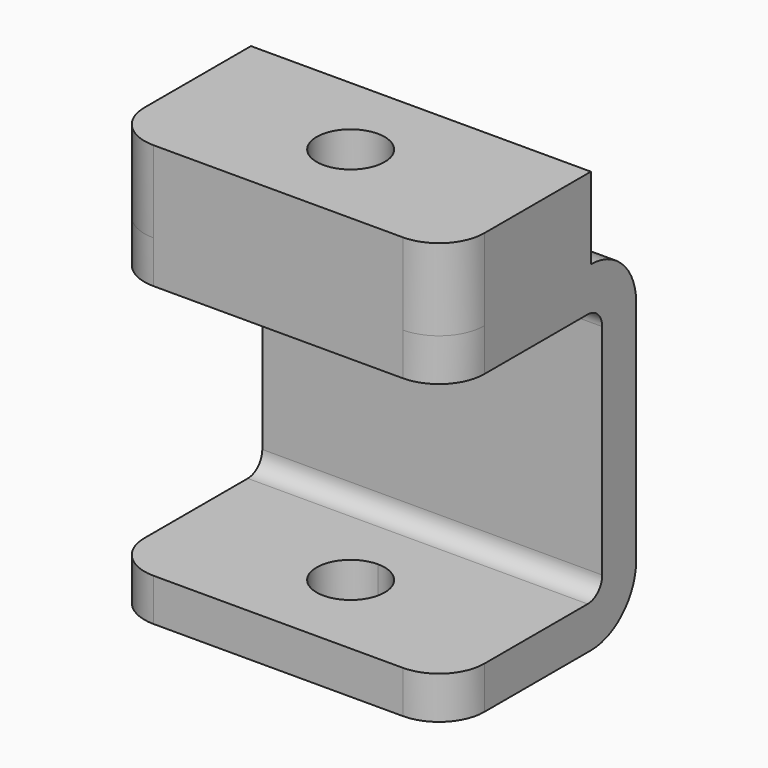
from build123d import *

# Parameters (mm, degrees)
F1_DEPTH = 19.05
F3_DEPTH = 70.5358
F4_R     = 5.08
F5_R     = 3.81
F6_DEPTH = 9.144


with BuildPart() as f1:
    # F0 (on Right) → F1 (new body, symmetric)
    with BuildSketch(Plane.YZ):
        with BuildLine():
            Line((19.558, 0), (0, 0))
            Line((0, 0), (0, -4.7625))
            Line((0, -4.7625), (20.0025, -4.7625))
            ThreePointArc((20.0025, -4.7625), (24.492628, -2.902628), (26.3525, 1.5875))
            Line((26.3525, 1.5875), (26.3525, 26.9875))
            ThreePointArc((26.3525, 26.9875), (24.492628, 31.477628), (20.0025, 33.3375))
            Line((20.0025, 33.3375), (0, 33.3375))
            Line((0, 33.3375), (0, 28.575))
            Line((0, 28.575), (19.558, 28.575))
            ThreePointArc((19.558, 28.575), (20.994841, 27.979841), (21.59, 26.543))
            Line((21.59, 26.543), (21.59, 2.032))
            ThreePointArc((21.59, 2.032), (20.994841, 0.595159), (19.558, 0))
        make_face()
    extrude(amount=F1_DEPTH, both=True)

    # F2 (on face) → F3 (cut)
    with BuildSketch(Plane(origin=(0, 0, -4.7625), x_dir=(1, 0, 0), z_dir=(0, 0, -1))):
        with BuildLine():
            ThreePointArc((3.81, -10.16), (2.694077, -7.465923), (0, -6.35))
            Line((0, -6.35), (0, -13.97))
            ThreePointArc((0, -13.97), (2.694077, -12.854077), (3.81, -10.16))
        make_face()
        with BuildLine():
            Line((0, -13.97), (0, -6.35))
            ThreePointArc((0, -6.35), (-3.81, -10.16), (0, -13.97))
        make_face()
    extrude(amount=-F3_DEPTH, mode=Mode.SUBTRACT)

    # F4
    f4_edges = [f1.edges().sort_by_distance(p)[0] for p in [
        (-19.05, 0, 30.95625),
        (19.05, 0, 30.95625),
        (19.05, 0, -2.38125),
        (-19.05, 0, -2.38125),
    ]]
    fillet(f4_edges, radius=F4_R)

    # F5 (on face) → F6 (join)
    with BuildSketch(Plane.XY.offset(33.3375)):
        with BuildLine():
            Line((19.05, 20.0025), (-19.05, 20.0025))
            Line((-19.05, 20.0025), (-19.05, 5.08))
            ThreePointArc((-19.05, 5.08), (-17.562102, 1.487898), (-13.97, 0))
            Line((-13.97, 0), (13.97, 0))
            ThreePointArc((13.97, 0), (17.562102, 1.487898), (19.05, 5.08))
            Line((19.05, 5.08), (19.05, 20.0025))
        make_face()
        with Locations((0, 10.16)):
            Circle(F5_R, mode=Mode.SUBTRACT)
    extrude(amount=F6_DEPTH)


solid = f1.part
